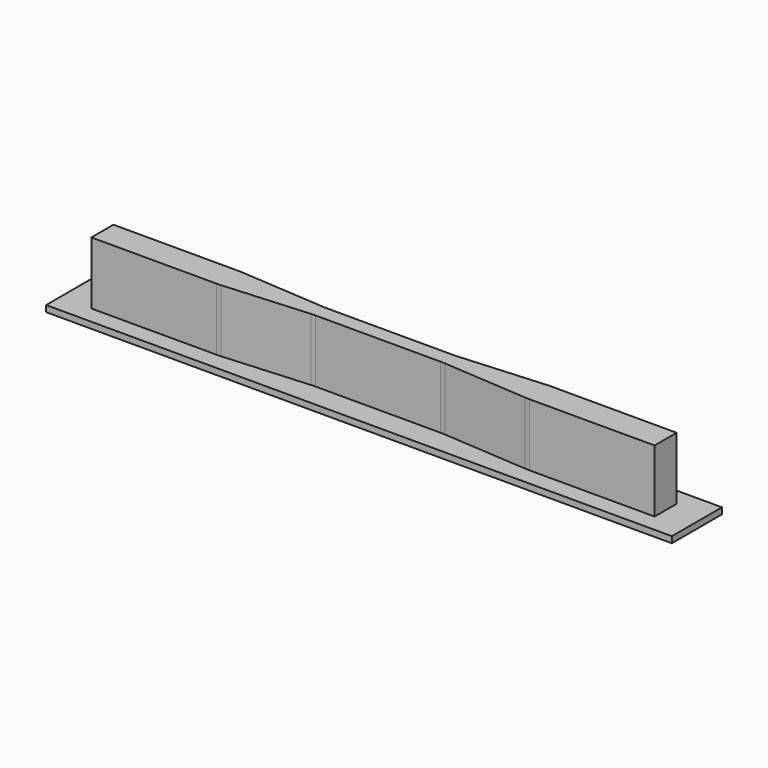
from build123d import *

# Parameters (mm, degrees)
SKETCH_W     = 50
SKETCH_H     = 5
PAD_DEPTH    = 0.5
PAD001_DEPTH = 5


with BuildPart() as part:
    # Sketch → Pad (new body)
    with BuildSketch(Plane.XY):
        Rectangle(SKETCH_W, SKETCH_H)
    extrude(amount=PAD_DEPTH)

    # Sketch001 (on Face6 of Pad) → Pad001 (join)
    with BuildSketch(Plane.XY.offset(0.5)):
        with BuildLine():
            Line((-12.5, 1.1), (-22.5, 1.1))
            Line((-22.5, 1.1), (-22.5, -1.1))
            Line((-22.5, -1.1), (-12.5, -1.1))
            ThreePointArc((-12.5, -1.1), (-12.325514, -1.096955), (-12.151241, -1.087822))
            Line((-5.348759, -0.612178), (-12.151241, -1.087822))
            ThreePointArc((-5, -0.6), (-5.174486, -0.603045), (-5.348759, -0.612178))
            Line((5, -0.6), (-5, -0.6))
            ThreePointArc((5.348759, -0.612178), (5.174486, -0.603045), (5, -0.6))
            Line((5.348759, -0.612178), (12.151241, -1.087822))
            ThreePointArc((12.151241, -1.087822), (12.325514, -1.096955), (12.5, -1.1))
            Line((12.5, -1.1), (22.5, -1.1))
            Line((22.5, -1.1), (22.5, 1.1))
            Line((22.5, 1.1), (12.5, 1.1))
            ThreePointArc((12.5, 1.1), (12.325514, 1.096955), (12.151241, 1.087822))
            Line((5.348759, 0.612178), (12.151241, 1.087822))
            ThreePointArc((5, 0.6), (5.174486, 0.603045), (5.348759, 0.612178))
            Line((-5, 0.6), (5, 0.6))
            ThreePointArc((-5.348759, 0.612178), (-5.174486, 0.603045), (-5, 0.6))
            Line((-5.348759, 0.612178), (-12.151241, 1.087822))
            ThreePointArc((-12.151241, 1.087822), (-12.325514, 1.096955), (-12.5, 1.1))
        make_face()
    extrude(amount=PAD001_DEPTH)


solid = part.part
